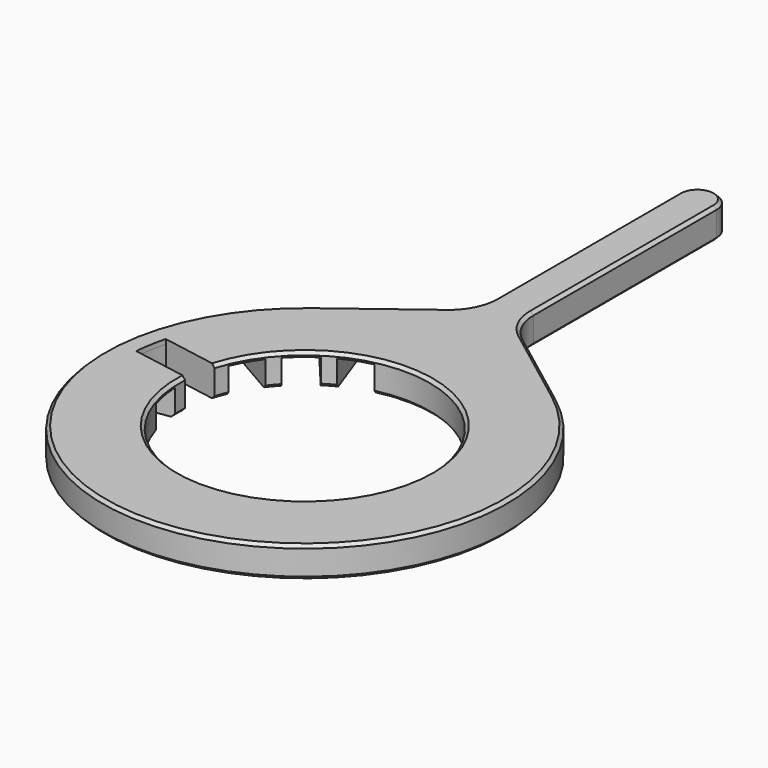
from build123d import *

# Parameters (mm, degrees)
SKETCH039_R     = 16.25
PAD017_DEPTH    = 4
POCKET014_DEPTH = 3.4
POCKET015_DEPTH = 0.601
CHAMFER012_SIZE = 0.4


with BuildPart() as part:
    # Sketch039 → Pad017 (new body)
    with BuildSketch(Plane.XY):
        with BuildLine():
            Line((-15.8267662036, 20.9422055079), (-4.8824534392, 29.2132101696))
            ThreePointArc((-4.8824534392, 29.2132101696), (-3.1285346801, 31.3265452468), (-2.5, 34))
            Line((-2.5, 34), (-2.5, 63.75))
            ThreePointArc((2.5, 63.75), (0, 66.25), (-2.5, 63.75))
            Line((2.5, 63.75), (2.5, 34))
            ThreePointArc((2.5, 34), (3.1285346801, 31.3265452468), (4.8824534392, 29.2132101696))
            Line((4.8824534392, 29.2132101696), (15.8267662036, 20.9422055079))
            ThreePointArc((-15.8267662036, 20.9422055079), (0, -26.25), (15.8267662036, 20.9422055079))
        make_face()
        Circle(SKETCH039_R, mode=Mode.SUBTRACT)
    extrude(amount=PAD017_DEPTH)

    # Sketch040 → Pocket014 (cut)
    with BuildSketch(Plane.XY):
        with BuildLine():
            Line((-14.9659183372, 6.3311759039), (-21.4611088655, 10.0811759039))
            ThreePointArc((-19.4611088655, 13.545277519), (-20.5342878135, 11.8554765967), (-21.4611088655, 10.0811759039))
            Line((-19.4611088655, 13.545277519), (-12.9659183372, 9.795277519))
            Line((-12.9659183372, 9.795277519), (-14.9659183372, 6.3311759039))
        make_face()
        with BuildLine():
            Line((-16.2287527148, 0.8307137431), (-23.6148108624, 2.1330750756))
            ThreePointArc((-22.9202181517, 6.0723060876), (-23.3507305362, 4.1173638128), (-23.6148108624, 2.1330750756))
            Line((-22.9202181517, 6.0723060876), (-15.5341600041, 4.7699447551))
            Line((-15.5341600041, 4.7699447551), (-16.2287527148, 0.8307137431))
        make_face()
        with BuildLine():
            Line((-11.8979733346, 11.0680048124), (-16.7188804073, 16.8133381358))
            ThreePointArc((-13.6547026348, 19.3844885746), (-15.2411069266, 18.1636439349), (-16.7188804073, 16.8133381358))
            Line((-13.6547026348, 19.3844885746), (-8.8337955622, 13.6391552512))
            Line((-11.8979733346, 11.0680048124), (-8.8337955622, 13.6391552512))
        make_face()
        with BuildLine():
            Line((-7.3949571526, 14.4698689943), (-9.9601082275, 21.5175636502))
            ThreePointArc((-6.2013377444, 22.8856442235), (-8.1096236096, 22.2810077477), (-9.9601082275, 21.5175636502))
            Line((-6.2013377444, 22.8856442235), (-3.6361866695, 15.8379495676))
            Line((-7.3949571526, 14.4698689943), (-3.6361866695, 15.8379495676))
        make_face()
        with BuildLine():
            Line((-15.5341600041, -4.7699447551), (-22.9202181517, -6.0723060876))
            ThreePointArc((-23.6148108624, -2.1330750756), (-23.3507305362, -4.1173638128), (-22.9202181517, -6.0723060876))
            Line((-23.6148108624, -2.1330750756), (-16.2287527148, -0.8307137431))
            Line((-16.2287527148, -0.8307137431), (-15.5341600041, -4.7699447551))
        make_face()
    extrude(amount=POCKET014_DEPTH, mode=Mode.SUBTRACT)

    # Pocket014 Face30 → Pocket015 (cut, through all)
    with BuildSketch(Plane(origin=(-19.6427739907, 3.4635510305, 3.4), x_dir=(0, -1, 0), z_dir=(0, 0, -1))):
        with BuildLine():
            Line((2.6328372874, -3.4140212759), (1.3304759549, 3.9720368717))
            ThreePointArc((1.3304759549, 3.9720368717), (-0.6538127823, 3.7079565456), (-2.6087550571, 3.277444161))
            Line((-2.6087550571, 3.277444161), (-1.3063937246, -4.1086139866))
            ThreePointArc((-1.3063937246, -4.1086139866), (0.6417681434, -3.6396480042), (2.6328372874, -3.4140212759))
        make_face()
    extrude(amount=-POCKET015_DEPTH, mode=Mode.SUBTRACT)

    # Chamfer012
    chamfer012_edges = [part.edges().sort_by_distance(p)[0] for p in [
        (2.41168, 16.070044, 4),
        (0, -26.25, 4),
        (0, -26.25, 0),
        (2.41168, -16.070044, 0),
        (-16.25, 0, 0),
        (-15.270005, 5.557827, 0),
        (-12.448222, 10.445299, 0),
        (-8.125, 14.072913, 0),
    ]]
    chamfer(chamfer012_edges, length=CHAMFER012_SIZE)


solid = part.part
